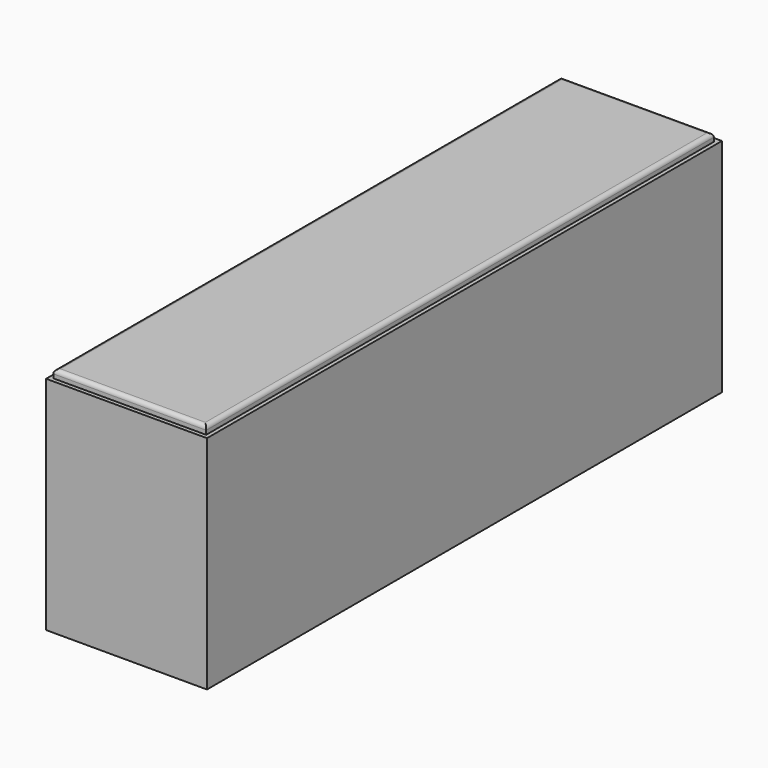
from build123d import *

# Parameters (mm, degrees)
F0_W     = 400
F0_H     = 550
F1_DEPTH = 1600
F2_W     = 380
F2_H     = 1577.29602
F3_DEPTH = 20
F4_R     = 10


with BuildPart() as f1:
    # F0 (on Front) → F1 (new body)
    with BuildSketch(Plane.XZ):
        with Locations((-5.16789, 47.604696)):
            Rectangle(F0_W, F0_H)
    extrude(amount=F1_DEPTH)

    # F2 (on face) → F3 (join)
    with BuildSketch(Plane.XY.offset(322.604696)):
        with Locations((-5.16789, -801.35199)):
            Rectangle(F2_W, F2_H)
    extrude(amount=F3_DEPTH)

    # F4
    f4_edges = [f1.edges().sort_by_distance(p)[0] for p in [
        (-5.16789, -12.70398, 342.604696),
        (-195.16789, -801.35199, 342.604696),
        (-5.16789, -1590, 342.604696),
        (184.83211, -801.35199, 342.604696),
    ]]
    fillet(f4_edges, radius=F4_R)


solid = f1.part
